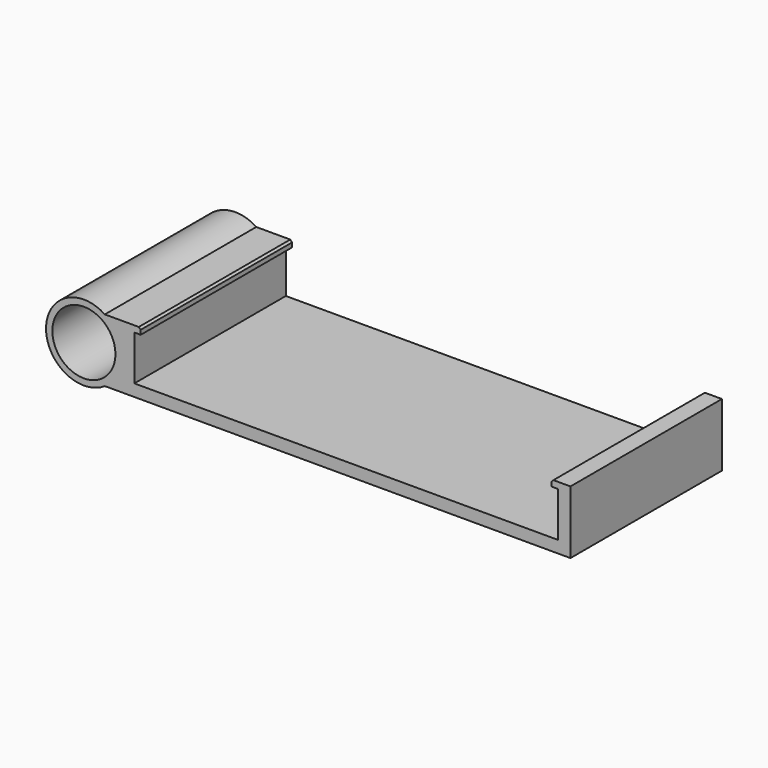
from build123d import *

# Parameters (mm, degrees)
F0_R     = 5
F1_DEPTH = 30
F2_SIZE  = 0.3


with BuildPart() as f1:
    # F0 (on Front) → F1 (new body)
    with BuildSketch(Plane.XZ):
        with BuildLine():
            Line((3, 0), (0, 0))
            Line((0, 0), (-2.683375, 0))
            ThreePointArc((-2.683375, 0), (-12, -5), (-2.683375, -10))
            Line((-2.683375, -10), (0, -10))
            Line((0, -10), (71.1, -10))
            Line((71.1, -10), (71.1, 0))
            Line((71.1, 0), (68.1, 0))
            Line((68.1, 0), (68.1, -1))
            Line((68.1, -1), (69.1, -1))
            Line((69.1, -1), (69.1, -8.1))
            Line((69.1, -8.1), (2, -8.1))
            Line((2, -8.1), (2, -1))
            Line((2, -1), (3, -1))
            Line((3, -1), (3, 0))
        make_face()
        with Locations((-6, -5)):
            Circle(F0_R, mode=Mode.SUBTRACT)
    extrude(amount=F1_DEPTH)

    # F2
    f2_edges = [f1.edges().sort_by_distance(p)[0] for p in [
        (68.1, -15, 0),
        (3, -15, 0),
    ]]
    chamfer(f2_edges, length=F2_SIZE)


solid = f1.part
